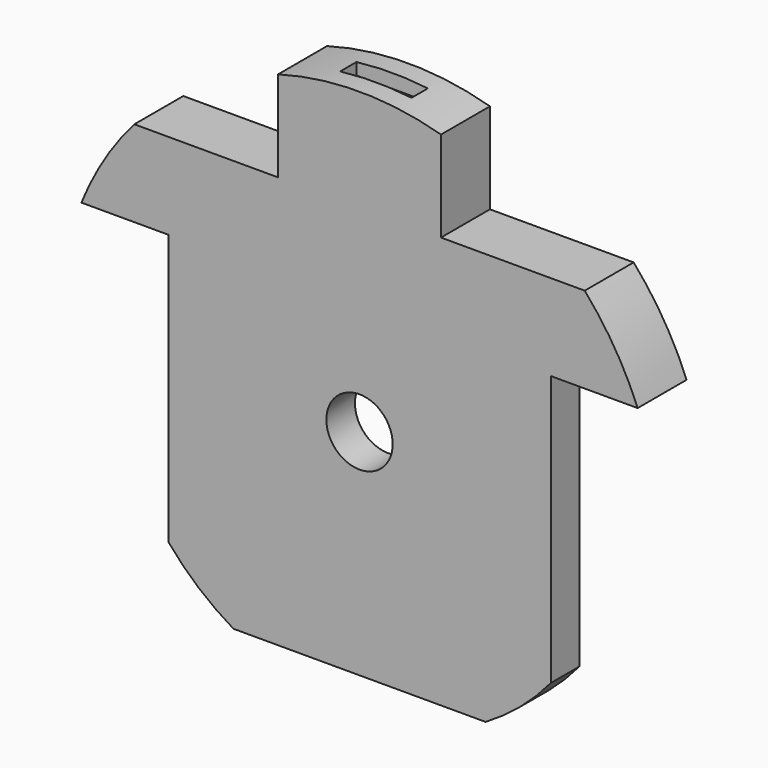
from build123d import *

# Parameters (mm, degrees)
F1_DEPTH  = 2.4
F2_W      = 1
F2_H      = 15
F3_DEPTH  = 12.5
F5_W      = 2.8
F5_H      = 0.8
F6_DEPTH  = 0.8
F8_DEPTH  = 2.401
F9_R      = 1.3
F10_DEPTH = 2.401


with BuildPart() as f1:
    # F0 (on Front) → F1 (new body)
    with BuildSketch(Plane.XZ):
        with BuildLine():
            Line((-7.5, 4.37), (-7.5, -6.229968))
            ThreePointArc((-7.5, -6.229968), (-6.316015, -7.427682), (-4.943581, -8.403779))
            Line((-4.943581, -8.403779), (4.943581, -8.403779))
            ThreePointArc((4.943581, -8.403779), (6.316015, -7.427682), (7.5, -6.229968))
            Line((7.5, -6.229968), (7.5, 4.37))
            Line((7.5, 4.37), (10.907135, 4.37))
            ThreePointArc((10.907135, 4.37), (0, 11.75), (-10.907135, 4.37))
            Line((-10.907135, 4.37), (-7.5, 4.37))
        make_face()
    extrude(amount=F1_DEPTH)

    # F2 (on Right) → F3 (cut, symmetric)
    with BuildSketch(Plane.YZ):
        with Locations((-0.5, -3.13)):
            Rectangle(F2_W, F2_H)
    extrude(amount=F3_DEPTH, both=True, mode=Mode.SUBTRACT)

    # F5 (on offset) → F6 (cut)
    with BuildSketch(Plane.XY.offset(12)):
        with Locations((0, -1.2)):
            Rectangle(F5_W, F5_H)
    extrude(amount=-F6_DEPTH, mode=Mode.SUBTRACT)

    # F7 (on face) → F8 (cut, through all)
    with BuildSketch(Plane.XZ.offset(2.4)):
        with BuildLine():
            Line((-3.195484, 7.75), (-3.195484, 11.307139))
            ThreePointArc((-3.195484, 11.307139), (-6.271121, 9.936576), (-8.831761, 7.75))
            Line((-8.831761, 7.75), (-3.195484, 7.75))
        make_face()
        with BuildLine():
            Line((3.195484, 7.75), (8.831761, 7.75))
            ThreePointArc((8.831761, 7.75), (6.271121, 9.936576), (3.195484, 11.307139))
            Line((3.195484, 11.307139), (3.195484, 7.75))
        make_face()
    extrude(amount=-F8_DEPTH, mode=Mode.SUBTRACT)

    # F9 (on face) → F10 (cut, through all)
    with BuildSketch(Plane.XZ.offset(2.4)):
        Circle(F9_R)
    extrude(amount=-F10_DEPTH, mode=Mode.SUBTRACT)


solid = f1.part
